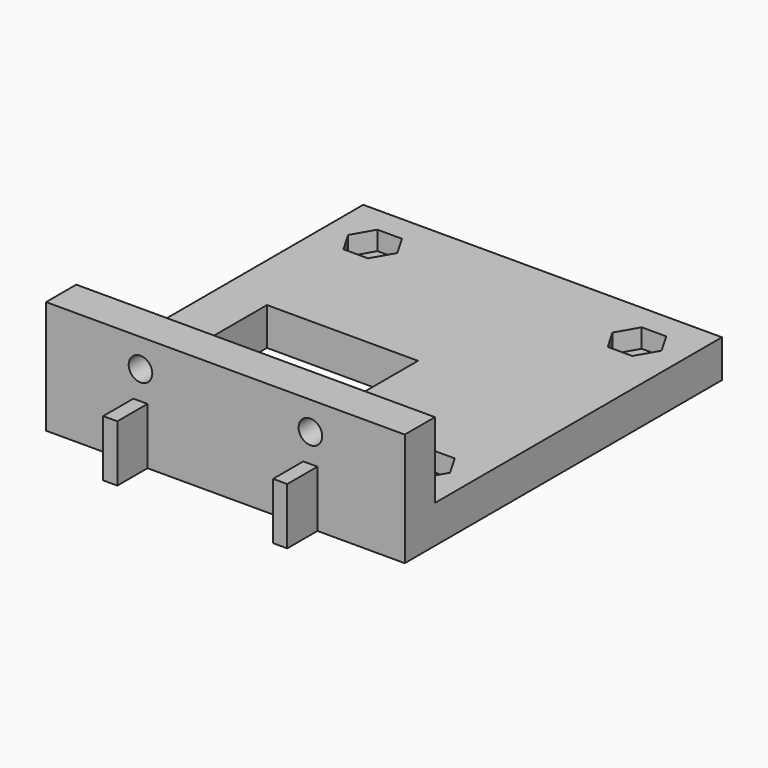
from build123d import *

# Parameters (mm, degrees)
F0_R     = 1.25
F1_DEPTH = 2
F2_W     = 38
F2_H     = 42
F3_DEPTH = 2
F4_W     = 1.5
F4_H     = 4
F5_DEPTH = 6
F6_W     = 38
F6_H     = 4
F7_DEPTH = 8
F8_R     = 1.25
F9_DEPTH = 25


with BuildPart() as f1:
    # F0 (on Top) → F1 (new body)
    with BuildSketch(Plane.XY):
        Polygon((19, 19), (-19, 19), (-19, -23), (10, -23), (12, -23), (19, -23), align=None)
        with BuildLine():
            ThreePointArc((-14, -15.25), (-15.25, -14), (-14, -12.75))
            Line((-14, -12.75), (-14, 0))
            Line((-14, 0), (2, 0))
            Line((2, 0), (2, -15.25))
            Line((2, -15.25), (-14, -15.25))
        make_face(mode=Mode.SUBTRACT)
        with Locations((14, -14)):
            Circle(F0_R, mode=Mode.SUBTRACT)
        with Locations((-14, 14)):
            Circle(F0_R, mode=Mode.SUBTRACT)
        with Locations((14, 14)):
            Circle(F0_R, mode=Mode.SUBTRACT)
    extrude(amount=F1_DEPTH)

    # F2 (on face) → F3 (join)
    with BuildSketch(Plane.XY.offset(2)):
        with Locations((0, -2)):
            Rectangle(F2_W, F2_H)
        Polygon((2, -15.25), (-12.1236116251, -15.25), (-12.7009618943, -16.25), (-15.2990381057, -16.25), (-16.5980762114, -14), (-15.2990381057, -11.75), (-14, -11.75), (-14, 0), (2, 0), align=None, mode=Mode.SUBTRACT)
        Polygon((15.2990381057, -11.75), (16.5980762114, -14), (15.2990381057, -16.25), (12.7009618943, -16.25), (11.4019237886, -14), (12.7009618943, -11.75), align=None, mode=Mode.SUBTRACT)
        Polygon((-12.7009618943, 16.25), (-11.4019237886, 14), (-12.7009618943, 11.75), (-15.2990381057, 11.75), (-16.5980762114, 14), (-15.2990381057, 16.25), align=None, mode=Mode.SUBTRACT)
        Polygon((15.2990381057, 16.25), (16.5980762114, 14), (15.2990381057, 11.75), (12.7009618943, 11.75), (11.4019237886, 14), (12.7009618943, 16.25), align=None, mode=Mode.SUBTRACT)
    extrude(amount=F3_DEPTH)

    # F4 (on Top) → F5 (join)
    with BuildSketch(Plane.XY):
        with Locations((-9, -25)):
            Rectangle(F4_W, F4_H)
        with Locations((9, -25)):
            Rectangle(F4_W, F4_H)
        with Locations((-9, -25)):
            Rectangle(F4_W, F4_H)
        with Locations((9, -25)):
            Rectangle(F4_W, F4_H)
    extrude(amount=F5_DEPTH)

    # F6 (on face) → F7 (join)
    with BuildSketch(Plane.XY.offset(4)):
        with Locations((0, -21)):
            Rectangle(F6_W, F6_H)
    extrude(amount=F7_DEPTH)

    # F8 (on face) → F9 (cut)
    with BuildSketch(Plane.XZ.offset(23)):
        with Locations((-9, 9)):
            Circle(F8_R)
        with Locations((9, 9)):
            Circle(F8_R)
    extrude(amount=-F9_DEPTH, mode=Mode.SUBTRACT)


solid = f1.part
